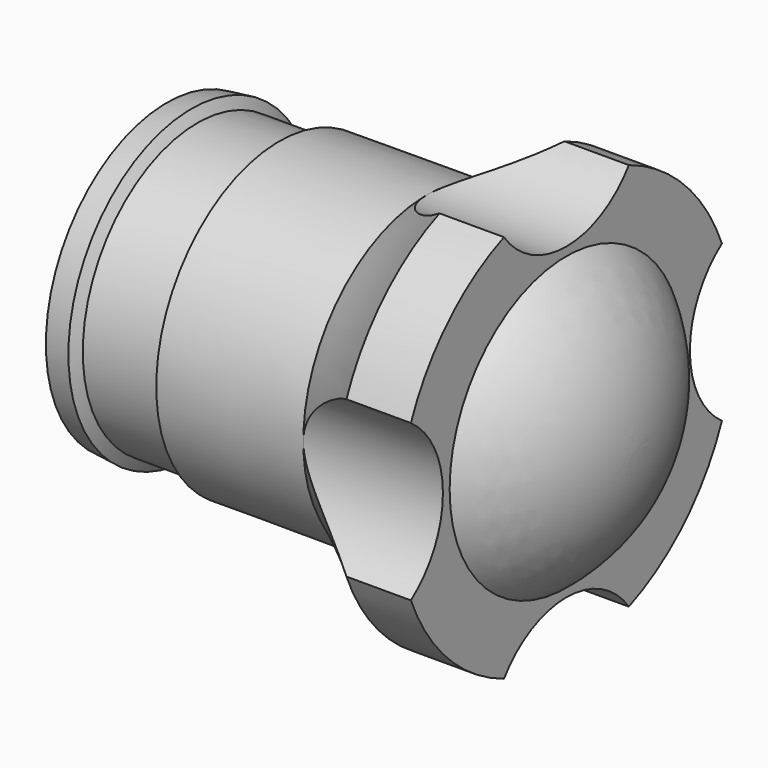
from build123d import *

# Parameters (mm, degrees)
SKETCH001_R        = 5.72703
POCKET_DEPTH       = 113.912459
POLARPATTERN_COUNT = 4
SKETCH002_R        = 7
POCKET001_DEPTH    = 23


with BuildPart() as part:
    # Sketch → Revolution (revolve)
    with BuildSketch(Plane.XY):
        with BuildLine():
            ThreePointArc((4.191612, 0), (3.089028, 4.826759), (0, 8.696022))
            Line((0, 8.696022), (0, 12.478185))
            Line((0, 12.478185), (-3.839461, 12.478185))
            ThreePointArc((-8.326538, 9.189423), (-6.01736, 10.744248), (-3.839461, 12.478185))
            Line((-8.326538, 9.189423), (-17.102989, 9.162301))
            Line((-17.102989, 9.162301), (-17.277503, 8.538994))
            Line((-17.277503, 8.538994), (-21.978689, 8.538994))
            Line((-21.978689, 8.538994), (-22.338589, 9.1623))
            Line((-22.338589, 9.1623), (-23.808388, 9))
            Line((-23.808388, 9), (-23.808388, 0))
            Line((-23.808388, 0), (4.191612, 0))
        make_face()
    revolve(axis=Axis((0, 0, 0), (1, 0, 0)))

    # Sketch001 (on Face2 of Revolution) → Pocket (cut, through all)
    with BuildSketch(Plane.YZ):
        with Locations((14.923323, 0)):
            Circle(SKETCH001_R)
    pocket = extrude(amount=-POCKET_DEPTH, mode=Mode.SUBTRACT)

    # PolarPattern: Pocket ×4 about axis
    polarpattern_axis = Axis((0, 0, 0), (1, 0, 0))
    for i in range(1, POLARPATTERN_COUNT):
        add(pocket.rotate(polarpattern_axis, i * 360 / POLARPATTERN_COUNT), mode=Mode.SUBTRACT)

    # Sketch002 (on Face17 of PolarPattern) → Pocket001 (cut)
    with BuildSketch(Plane(origin=(-23.808388, 0, 0), x_dir=(0, -1, 0), z_dir=(-1, 0, 0))):
        Circle(SKETCH002_R)
    extrude(amount=-POCKET001_DEPTH, mode=Mode.SUBTRACT)


solid = part.part
